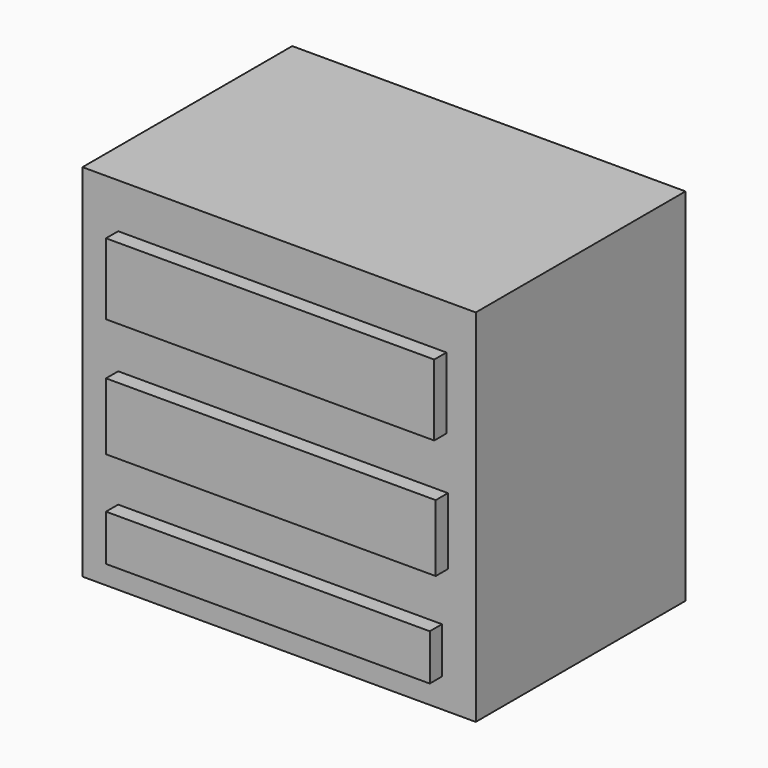
from build123d import *

# Parameters (mm, degrees)
F0_W     = 76.2
F0_H     = 50.8
F1_DEPTH = 69.85
F2_W     = 63.605074
F2_H     = 13.815801
F2_W_2   = 63.892879
F2_H_2   = 12.952317
F2_W_3   = 62.741656
F2_H_3   = 8.922708
F3_DEPTH = 25.4


with BuildPart() as f1:
    # F0 (on Top) → F1 (new body)
    with BuildSketch(Plane.XY):
        with Locations((2.839793, 2.958526)):
            Rectangle(F0_W, F0_H)
    extrude(amount=F1_DEPTH)

    # F2 (on Front) → F3 (join)
    with BuildSketch(Plane.XZ):
        with Locations((3.456326, 54.260583)):
            Rectangle(F2_W, F2_H)
        with Locations((3.600228, 30.802497)):
            Rectangle(F2_W_2, F2_H_2)
        with Locations((3.024617, 10.078791)):
            Rectangle(F2_W_3, F2_H_3)
    extrude(amount=F3_DEPTH)


solid = f1.part
